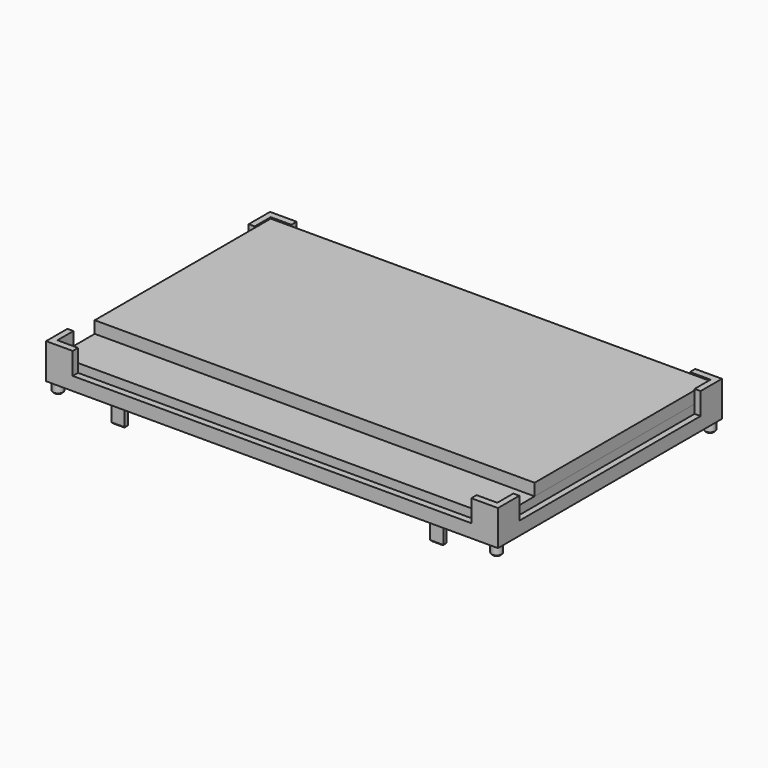
from build123d import *

# Parameters (mm, degrees)
F0_W       = 67.8
F0_H       = 42
F0_R       = 0.75
F0_W_2     = 2
F0_H_2     = 0.6
F1_DEPTH   = 5.3
F2_DEPTH   = 1.5
F3_DEPTH   = 3.1
F5_DEPTH   = 3.3
F7_DEPTH   = 1.3
F8_W       = 66
F8_H       = 33
F9_DEPTH   = 1.8
F10_SIZE   = 0.2
F10_2_SIZE = 0.2
F10_3_SIZE = 0.2


with BuildPart() as f1:
    # F0 (on Top) → F1 (new body)
    with BuildSketch(Plane.XY):
        Rectangle(F0_W, F0_H)
        with Locations((-32.9, -20)):
            Circle(F0_R, mode=Mode.SUBTRACT)
        with Locations((-23.9, -19.7)):
            Rectangle(F0_W_2, F0_H_2, mode=Mode.SUBTRACT)
        with Locations((23.9, -19.7)):
            Rectangle(F0_W_2, F0_H_2, mode=Mode.SUBTRACT)
        with Locations((32.9, -20)):
            Circle(F0_R, mode=Mode.SUBTRACT)
        with Locations((-32.9, 20)):
            Circle(F0_R, mode=Mode.SUBTRACT)
        with Locations((32.9, 20)):
            Circle(F0_R, mode=Mode.SUBTRACT)
        with Locations((32.9, 20)):
            Circle(F0_R)
        with Locations((32.9, -20)):
            Circle(F0_R)
        with Locations((-32.9, 20)):
            Circle(F0_R)
        with Locations((-32.9, -20)):
            Circle(F0_R)
        with Locations((-23.9, -19.7)):
            Rectangle(F0_W_2, F0_H_2)
        with Locations((23.9, -19.7)):
            Rectangle(F0_W_2, F0_H_2)
    extrude(amount=F1_DEPTH)

    # F0 (on Top) → F2 (join)
    with BuildSketch(Plane.XY):
        with Locations((-32.9, -20)):
            Circle(F0_R)
        with Locations((32.9, -20)):
            Circle(F0_R)
        with Locations((32.9, 20)):
            Circle(F0_R)
        with Locations((-32.9, 20)):
            Circle(F0_R)
    extrude(amount=-F2_DEPTH)

    # F4 (on face) → F5 (cut)
    with BuildSketch(Plane.XY.offset(5.3)):
        Polygon((33, 17), (33, 20), (29.9, 20), (29.9, 21), (-29.9, 21), (-29.9, 20), (-33, 20), (-33, 17), (-33.9, 17), (-33.9, -17), (-33, -17), (-33, -20), (-29.9, -20), (-29.9, -21), (29.9, -21), (29.9, -20), (33, -20), (33, -17), (33.9, -17), (33.9, 17), align=None)
    extrude(amount=-F5_DEPTH, mode=Mode.SUBTRACT)

    # F10
    f10_edges = [f1.edges().sort_by_distance(p)[0] for p in [
        (-33.65, -20, -1.5),
        (32.15, -20, -1.5),
        (32.15, 20, -1.5),
        (-33.65, 20, -1.5),
    ]]
    chamfer(f10_edges, length=F10_SIZE)


with BuildPart() as f3:
    # F0 (on Top) → F3 (new body)
    with BuildSketch(Plane.XY):
        with Locations((-23.9, -19.7)):
            Rectangle(F0_W_2, F0_H_2)
    extrude(amount=-F3_DEPTH)

    # F10#2
    f10_2_edges = [f3.edges().sort_by_distance(p)[0] for p in [
        (-23.9, -20, -3.1),
        (-22.9, -19.7, -3.1),
        (-23.9, -19.4, -3.1),
        (-24.9, -19.7, -3.1),
    ]]
    chamfer(f10_2_edges, length=F10_2_SIZE)


with BuildPart() as f3b:
    # F0 (on Top) → F3, piece 2 (new body)
    with BuildSketch(Plane.XY):
        with Locations((23.9, -19.7)):
            Rectangle(F0_W_2, F0_H_2)
    extrude(amount=-F3_DEPTH)

    # F10#3
    f10_3_edges = [f3b.edges().sort_by_distance(p)[0] for p in [
        (23.9, -19.4, -3.1),
        (22.9, -19.7, -3.1),
        (23.9, -20, -3.1),
        (24.9, -19.7, -3.1),
    ]]
    chamfer(f10_3_edges, length=F10_3_SIZE)


with BuildPart() as f7:
    # F6 (on face) → F7 (new body)
    with BuildSketch(Plane.XY.offset(2)):
        Polygon((33, 17), (33, 20), (29.9, 20), (-29.9, 20), (-33, 20), (-33, 17), (-33, -17), (-33, -20), (-29.9, -20), (29.9, -20), (33, -20), (33, -17), align=None)
    extrude(amount=F7_DEPTH)


with BuildPart() as f9:
    # F8 (on face) → F9 (new body)
    with BuildSketch(Plane.XY.offset(3.3)):
        with Locations((0, 3.5)):
            Rectangle(F8_W, F8_H)
    extrude(amount=F9_DEPTH)


solid = Compound([f1.part, f3.part, f3b.part, f7.part, f9.part])
